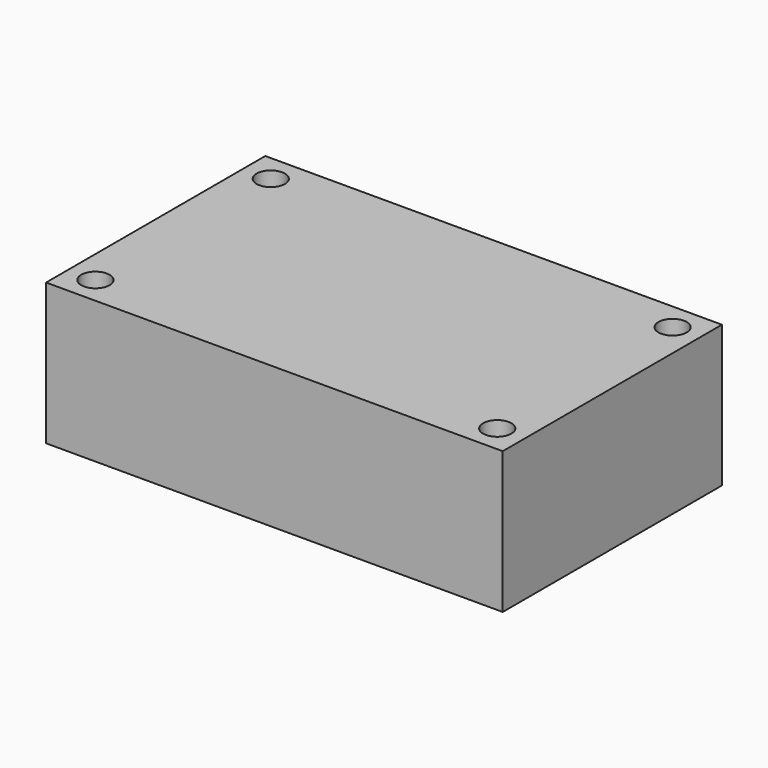
from build123d import *

# Parameters (mm, degrees)
F0_W     = 50
F0_H     = 30
F1_DEPTH = 15.5
F2_D     = 3.1


with BuildPart() as f1:
    # F0 (on Top) → F1 (new body)
    with BuildSketch(Plane.XY):
        Rectangle(F0_W, F0_H)
    extrude(amount=F1_DEPTH)

    # F2 (through all)
    with Locations(Plane(origin=(0, 0, 0), x_dir=(1, 0, 0), z_dir=(0, 0, -1))):
        with Locations((-22, 12), (22, 12), (22, -12), (-22, -12)):
            Hole(F2_D / 2)


solid = f1.part
